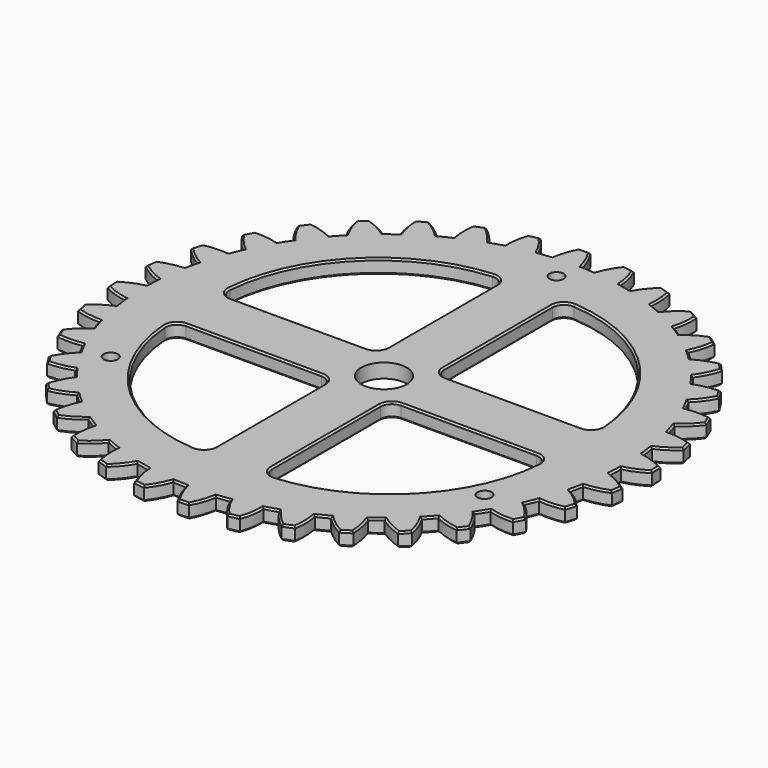
from build123d import *

# Parameters (mm, degrees)
F2_DEPTH  = 6.35
F3_COUNT  = 36
F5_DEPTH  = 6.351
F6_R      = 5.08
F7_SIZE   = 0.762
F8_R      = 10.16
F9_DEPTH  = 19.05
F10_R     = 3.175
F11_DEPTH = 6.351


with BuildPart() as f2:
    # F1 (on Top) → F2 (new body)
    with BuildSketch(Plane.XY):
        with BuildLine():
            ThreePointArc((-10.751607, 107.413246), (4.238097, -107.866774), (2.290917, 107.925688))
            ThreePointArc((2.290917, 107.925688), (0.506257, 113.204497), (-2.173808, 118.089994))
            Line((-2.173808, 118.089994), (-7.098127, 117.896517))
            ThreePointArc((-7.098127, 117.896517), (-9.386618, 112.815805), (-10.751607, 107.413246))
        make_face()
    extrude(amount=-F2_DEPTH)

    # F3: F2 ×36 about axis
    f3_axis = Axis((0, 0, 0), (0, 0, 1))


with BuildPart() as f2_1:
    add(f2.part)
    for i in range(1, F3_COUNT):
        add(f2.part.rotate(f3_axis, i * 360 / F3_COUNT))

    # F4 (on face) → F5 (cut, through all)
    with BuildSketch(Plane.XY):
        with BuildLine():
            Line((-83.639488, 12.7), (-12.7, 12.7))
            Line((-12.7, 12.7), (-12.7, 83.639488))
            ThreePointArc((-12.7, 83.639488), (-62.861793, 62.861793), (-83.639488, 12.7))
        make_face()
        with BuildLine():
            Line((-12.7, -12.7), (-83.639488, -12.7))
            ThreePointArc((-83.639488, -12.7), (-62.861793, -62.861793), (-12.7, -83.639488))
            Line((-12.7, -83.639488), (-12.7, -12.7))
        make_face()
        with BuildLine():
            Line((12.7, -12.7), (12.7, -83.639488))
            ThreePointArc((12.7, -83.639488), (62.861793, -62.861793), (83.639488, -12.7))
            Line((83.639488, -12.7), (12.7, -12.7))
        make_face()
        with BuildLine():
            Line((12.7, 12.7), (83.639488, 12.7))
            ThreePointArc((83.639488, 12.7), (62.861793, 62.861793), (12.7, 83.639488))
            Line((12.7, 83.639488), (12.7, 12.7))
        make_face()
    extrude(amount=-F5_DEPTH, mode=Mode.SUBTRACT)

    # F6
    f6_edges = [f2_1.edges().sort_by_distance(p)[0] for p in [
        (-83.639488, 12.7, -3.175),
        (-12.7, 83.639488, -3.175),
        (-12.7, 12.7, -3.175),
        (12.7, 12.7, -3.175),
        (12.7, 83.639488, -3.175),
        (83.639488, 12.7, -3.175),
        (12.7, -12.7, -3.175),
        (83.639488, -12.7, -3.175),
        (12.7, -83.639488, -3.175),
        (-12.7, -12.7, -3.175),
        (-12.7, -83.639488, -3.175),
        (-83.639488, -12.7, -3.175),
    ]]
    fillet(f6_edges, radius=F6_R)

    # F7
    f7_edges = [f2_1.edges().sort_by_distance(p)[0] for p in [
        (-12.7, -48.071638, 0),
        (-14.329214, -82.091341, 0),
        (-14.187898, -14.187898, 0),
        (-62.861793, -62.861793, 0),
        (-48.071638, -12.7, 0),
        (-82.091341, -14.329214, 0),
        (0.506257, 113.204497, 0),
        (5.179239, 107.825683, 0),
        (-4.635968, 117.993255, 0),
        (10.346244, 112.731848, 0),
        (-9.386618, 112.815805, 0),
        (15.923777, 117.0057, 0),
        (-13.623179, 107.086934, 0),
        (20.15632, 111.396755, 0),
        (-19.159189, 111.572577, 0),
        (23.824288, 105.288203, 0),
        (-25.054851, 115.395645, 0),
        (29.764742, 109.222592, 0),
        (-28.834273, 109.47191, 0),
        (35.999686, 112.462986, 0),
        (-32.011663, 103.094403, 0),
        (39.193944, 106.20428, 0),
        (-38.242493, 106.55058, 0),
        (41.745448, 99.551595, 0),
        (-44.712455, 109.291797, 0),
        (48.278852, 102.394662, 0),
        (-47.405814, 102.801766, 0),
        (54.981762, 104.50314, 0),
        (-49.427489, 95.9694, 0),
        (57.040679, 97.784842, 0),
        (-56.163817, 98.291098, 0),
        (58.398194, 90.790161, 0),
        (-63.011493, 99.867173, 0),
        (65.326034, 92.455522, 0),
        (-64.536952, 93.008043, 0),
        (72.293245, 93.36802, 0),
        (-65.341486, 85.928416, 0),
        (73.154263, 86.39426, 0),
        (-72.378633, 87.045091, 0),
        (73.27654, 79.270115, 0),
        (-79.39596, 87.408135, 0),
        (80.388318, 79.707168, 0),
        (-79.707168, 80.388318, 0),
        (87.408135, 79.39596, 0),
        (-79.270115, 73.27654, 0),
        (87.045091, 72.378633, 0),
        (-86.39426, 73.154263, 0),
        (85.928416, 65.341486, 0),
        (-93.36802, 72.293245, 0),
        (93.008043, 64.536952, 0),
        (-92.455522, 65.326034, 0),
        (99.867173, 63.011493, 0),
        (-90.790161, 58.398194, 0),
        (98.291098, 56.163817, 0),
        (-97.784842, 57.040679, 0),
        (95.9694, 49.427489, 0),
        (-104.50314, 54.981762, 0),
        (102.801766, 47.405814, 0),
        (-102.394662, 48.278852, 0),
        (109.291797, 44.712455, 0),
        (-99.551595, 41.745448, 0),
        (106.55058, 38.242493, 0),
        (-106.20428, 39.193944, 0),
        (103.094403, 32.011663, 0),
        (-112.462986, 35.999686, 0),
        (109.47191, 28.834273, 0),
        (-109.222592, 29.764742, 0),
        (115.395645, 25.054851, 0),
        (-105.288203, 23.824288, 0),
        (111.572577, 19.159189, 0),
        (-111.396755, 20.15632, 0),
        (107.086934, 13.623179, 0),
        (-117.0057, 15.923777, 0),
        (112.815805, 9.386618, 0),
        (-112.731848, 10.346244, 0),
        (117.993255, 4.635968, 0),
        (-107.825683, 5.179239, 0),
        (113.204497, -0.506257, 0),
        (-113.204497, 0.506257, 0),
        (107.825683, -5.179239, 0),
        (-117.993255, -4.635968, 0),
        (112.731848, -10.346244, 0),
        (-112.815805, -9.386618, 0),
        (117.0057, -15.923777, 0),
        (-107.086934, -13.623179, 0),
        (111.396755, -20.15632, 0),
        (-111.572577, -19.159189, 0),
        (105.288203, -23.824288, 0),
        (-115.395645, -25.054851, 0),
        (109.222592, -29.764742, 0),
        (-109.47191, -28.834273, 0),
        (112.462986, -35.999686, 0),
        (-103.094403, -32.011663, 0),
        (106.20428, -39.193944, 0),
        (-106.55058, -38.242493, 0),
        (99.551595, -41.745448, 0),
        (-109.291797, -44.712455, 0),
        (102.394662, -48.278852, 0),
        (-102.801766, -47.405814, 0),
        (104.50314, -54.981762, 0),
        (-95.9694, -49.427489, 0),
        (97.784842, -57.040679, 0),
        (-98.291098, -56.163817, 0),
        (90.790161, -58.398194, 0),
        (-99.867173, -63.011493, 0),
        (92.455522, -65.326034, 0),
        (-93.008043, -64.536952, 0),
        (93.36802, -72.293245, 0),
        (-85.928416, -65.341486, 0),
        (86.39426, -73.154263, 0),
        (-87.045091, -72.378633, 0),
        (79.270115, -73.27654, 0),
        (-87.408135, -79.39596, 0),
        (79.707168, -80.388318, 0),
        (-80.388318, -79.707168, 0),
        (79.39596, -87.408135, 0),
        (-73.27654, -79.270115, 0),
        (72.378633, -87.045091, 0),
        (-73.154263, -86.39426, 0),
        (65.341486, -85.928416, 0),
        (-72.293245, -93.36802, 0),
        (64.536952, -93.008043, 0),
        (-65.326034, -92.455522, 0),
        (63.011493, -99.867173, 0),
        (-58.398194, -90.790161, 0),
        (56.163817, -98.291098, 0),
        (-57.040679, -97.784842, 0),
        (49.427489, -95.9694, 0),
        (-54.981762, -104.50314, 0),
        (47.405814, -102.801766, 0),
        (-48.278852, -102.394662, 0),
        (44.712455, -109.291797, 0),
        (-41.745448, -99.551595, 0),
        (38.242493, -106.55058, 0),
        (-39.193944, -106.20428, 0),
        (32.011663, -103.094403, 0),
        (-35.999686, -112.462986, 0),
        (28.834273, -109.47191, 0),
        (-29.764742, -109.222592, 0),
        (25.054851, -115.395645, 0),
        (-23.824288, -105.288203, 0),
        (19.159189, -111.572577, 0),
        (-20.15632, -111.396755, 0),
        (13.623179, -107.086934, 0),
        (-15.923777, -117.0057, 0),
        (9.386618, -112.815805, 0),
        (-10.346244, -112.731848, 0),
        (4.635968, -117.993255, 0),
        (-5.179239, -107.825683, 0),
        (-0.506257, -113.204497, 0),
        (12.7, -48.071638, 0),
        (14.187898, -14.187898, 0),
        (14.329214, -82.091341, 0),
        (48.071638, -12.7, 0),
        (62.861793, -62.861793, 0),
        (82.091341, -14.329214, 0),
        (-48.071638, 12.7, 0),
        (-82.091341, 14.329214, 0),
        (-14.187898, 14.187898, 0),
        (-62.861793, 62.861793, 0),
        (-12.7, 48.071638, 0),
        (-14.329214, 82.091341, 0),
        (12.7, 48.071638, 0),
        (14.329214, 82.091341, 0),
        (14.187898, 14.187898, 0),
        (62.861793, 62.861793, 0),
        (48.071638, 12.7, 0),
        (82.091341, 14.329214, 0),
        (-12.7, -48.071638, -6.35),
        (-14.329214, -82.091341, -6.35),
        (-14.187898, -14.187898, -6.35),
        (-62.861793, -62.861793, -6.35),
        (-48.071638, -12.7, -6.35),
        (-82.091341, -14.329214, -6.35),
        (0.506257, 113.204497, -6.35),
        (5.179239, 107.825683, -6.35),
        (-4.635968, 117.993255, -6.35),
        (10.346244, 112.731848, -6.35),
        (-9.386618, 112.815805, -6.35),
        (15.923777, 117.0057, -6.35),
        (-13.623179, 107.086934, -6.35),
        (20.15632, 111.396755, -6.35),
        (-19.159189, 111.572577, -6.35),
        (23.824288, 105.288203, -6.35),
        (-25.054851, 115.395645, -6.35),
        (29.764742, 109.222592, -6.35),
        (-28.834273, 109.47191, -6.35),
        (35.999686, 112.462986, -6.35),
        (-32.011663, 103.094403, -6.35),
        (39.193944, 106.20428, -6.35),
        (-38.242493, 106.55058, -6.35),
        (41.745448, 99.551595, -6.35),
        (-44.712455, 109.291797, -6.35),
        (48.278852, 102.394662, -6.35),
        (-47.405814, 102.801766, -6.35),
        (54.981762, 104.50314, -6.35),
        (-49.427489, 95.9694, -6.35),
        (57.040679, 97.784842, -6.35),
        (-56.163817, 98.291098, -6.35),
        (58.398194, 90.790161, -6.35),
        (-63.011493, 99.867173, -6.35),
        (65.326034, 92.455522, -6.35),
        (-64.536952, 93.008043, -6.35),
        (72.293245, 93.36802, -6.35),
        (-65.341486, 85.928416, -6.35),
        (73.154263, 86.39426, -6.35),
        (-72.378633, 87.045091, -6.35),
        (73.27654, 79.270115, -6.35),
        (-79.39596, 87.408135, -6.35),
        (80.388318, 79.707168, -6.35),
        (-79.707168, 80.388318, -6.35),
        (87.408135, 79.39596, -6.35),
        (-79.270115, 73.27654, -6.35),
        (87.045091, 72.378633, -6.35),
        (-86.39426, 73.154263, -6.35),
        (85.928416, 65.341486, -6.35),
        (-93.36802, 72.293245, -6.35),
        (93.008043, 64.536952, -6.35),
        (-92.455522, 65.326034, -6.35),
        (99.867173, 63.011493, -6.35),
        (-90.790161, 58.398194, -6.35),
        (98.291098, 56.163817, -6.35),
        (-97.784842, 57.040679, -6.35),
        (95.9694, 49.427489, -6.35),
        (-104.50314, 54.981762, -6.35),
        (102.801766, 47.405814, -6.35),
        (-102.394662, 48.278852, -6.35),
        (109.291797, 44.712455, -6.35),
        (-99.551595, 41.745448, -6.35),
        (106.55058, 38.242493, -6.35),
        (-106.20428, 39.193944, -6.35),
        (103.094403, 32.011663, -6.35),
        (-112.462986, 35.999686, -6.35),
        (109.47191, 28.834273, -6.35),
        (-109.222592, 29.764742, -6.35),
        (115.395645, 25.054851, -6.35),
        (-105.288203, 23.824288, -6.35),
        (111.572577, 19.159189, -6.35),
        (-111.396755, 20.15632, -6.35),
        (107.086934, 13.623179, -6.35),
        (-117.0057, 15.923777, -6.35),
        (112.815805, 9.386618, -6.35),
        (-112.731848, 10.346244, -6.35),
        (117.993255, 4.635968, -6.35),
        (-107.825683, 5.179239, -6.35),
        (113.204497, -0.506257, -6.35),
        (-113.204497, 0.506257, -6.35),
        (107.825683, -5.179239, -6.35),
        (-117.993255, -4.635968, -6.35),
        (112.731848, -10.346244, -6.35),
        (-112.815805, -9.386618, -6.35),
        (117.0057, -15.923777, -6.35),
        (-107.086934, -13.623179, -6.35),
        (111.396755, -20.15632, -6.35),
        (-111.572577, -19.159189, -6.35),
        (105.288203, -23.824288, -6.35),
        (-115.395645, -25.054851, -6.35),
        (109.222592, -29.764742, -6.35),
        (-109.47191, -28.834273, -6.35),
        (112.462986, -35.999686, -6.35),
        (-103.094403, -32.011663, -6.35),
        (106.20428, -39.193944, -6.35),
        (-106.55058, -38.242493, -6.35),
        (99.551595, -41.745448, -6.35),
        (-109.291797, -44.712455, -6.35),
        (102.394662, -48.278852, -6.35),
        (-102.801766, -47.405814, -6.35),
        (104.50314, -54.981762, -6.35),
        (-95.9694, -49.427489, -6.35),
        (97.784842, -57.040679, -6.35),
        (-98.291098, -56.163817, -6.35),
        (90.790161, -58.398194, -6.35),
        (-99.867173, -63.011493, -6.35),
        (92.455522, -65.326034, -6.35),
        (-93.008043, -64.536952, -6.35),
        (93.36802, -72.293245, -6.35),
        (-85.928416, -65.341486, -6.35),
        (86.39426, -73.154263, -6.35),
        (-87.045091, -72.378633, -6.35),
        (79.270115, -73.27654, -6.35),
        (-87.408135, -79.39596, -6.35),
        (79.707168, -80.388318, -6.35),
        (-80.388318, -79.707168, -6.35),
        (79.39596, -87.408135, -6.35),
        (-73.27654, -79.270115, -6.35),
        (72.378633, -87.045091, -6.35),
        (-73.154263, -86.39426, -6.35),
        (65.341486, -85.928416, -6.35),
        (-72.293245, -93.36802, -6.35),
        (64.536952, -93.008043, -6.35),
        (-65.326034, -92.455522, -6.35),
        (63.011493, -99.867173, -6.35),
        (-58.398194, -90.790161, -6.35),
        (56.163817, -98.291098, -6.35),
        (-57.040679, -97.784842, -6.35),
        (49.427489, -95.9694, -6.35),
        (-54.981762, -104.50314, -6.35),
        (47.405814, -102.801766, -6.35),
        (-48.278852, -102.394662, -6.35),
        (44.712455, -109.291797, -6.35),
        (-41.745448, -99.551595, -6.35),
        (38.242493, -106.55058, -6.35),
        (-39.193944, -106.20428, -6.35),
        (32.011663, -103.094403, -6.35),
        (-35.999686, -112.462986, -6.35),
        (28.834273, -109.47191, -6.35),
        (-29.764742, -109.222592, -6.35),
        (25.054851, -115.395645, -6.35),
        (-23.824288, -105.288203, -6.35),
        (19.159189, -111.572577, -6.35),
        (-20.15632, -111.396755, -6.35),
        (13.623179, -107.086934, -6.35),
        (-15.923777, -117.0057, -6.35),
        (9.386618, -112.815805, -6.35),
        (-10.346244, -112.731848, -6.35),
        (4.635968, -117.993255, -6.35),
        (-5.179239, -107.825683, -6.35),
        (-0.506257, -113.204497, -6.35),
        (12.7, -48.071638, -6.35),
        (14.187898, -14.187898, -6.35),
        (14.329214, -82.091341, -6.35),
        (48.071638, -12.7, -6.35),
        (62.861793, -62.861793, -6.35),
        (82.091341, -14.329214, -6.35),
        (-48.071638, 12.7, -6.35),
        (-82.091341, 14.329214, -6.35),
        (-14.187898, 14.187898, -6.35),
        (-62.861793, 62.861793, -6.35),
        (-12.7, 48.071638, -6.35),
        (-14.329214, 82.091341, -6.35),
        (12.7, 48.071638, -6.35),
        (14.329214, 82.091341, -6.35),
        (14.187898, 14.187898, -6.35),
        (62.861793, 62.861793, -6.35),
        (48.071638, 12.7, -6.35),
        (82.091341, 14.329214, -6.35),
    ]]
    chamfer(f7_edges, length=F7_SIZE)

    # F8 (on face) → F9 (cut)
    with BuildSketch(Plane.XY):
        Circle(F8_R)
    extrude(amount=-F9_DEPTH, mode=Mode.SUBTRACT)

    # F10 (on face) → F11 (cut, through all)
    with BuildSketch(Plane.XY):
        with Locations((0, 96.52)):
            Circle(F10_R)
        with Locations((-83.588772, -48.26)):
            Circle(F10_R)
        with Locations((83.588772, -48.26)):
            Circle(F10_R)
    extrude(amount=-F11_DEPTH, mode=Mode.SUBTRACT)


solid = f2_1.part
